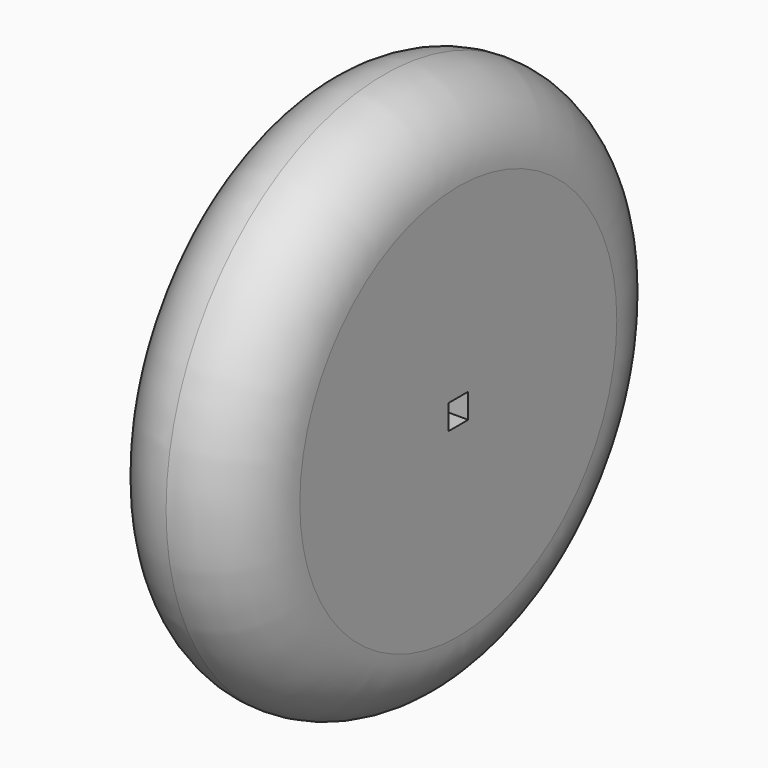
from build123d import *

# Parameters (mm, degrees)
F2_W     = 3.175
F2_H     = 3.175
F3_DEPTH = 25


with BuildPart() as f1:
    # F0 (on Top) → F1 (revolve)
    with BuildSketch(Plane.XY):
        with BuildLine():
            Line((-9.525, 0), (9.525, 0))
            Line((9.525, 0), (9.525, 25.4))
            ThreePointArc((9.525, 25.4), (6.735192, 32.135192), (0, 34.925))
            ThreePointArc((0, 34.925), (-6.735192, 32.135192), (-9.525, 25.4))
            Line((-9.525, 25.4), (-9.525, 0))
        make_face()
    revolve(axis=Axis((0, 0, 0), (-1, 0, 0)))

    # F2 (on face) → F3 (cut)
    with BuildSketch(Plane.YZ.offset(9.525)):
        Rectangle(F2_W, F2_H)
    extrude(amount=-F3_DEPTH, mode=Mode.SUBTRACT)


solid = f1.part
